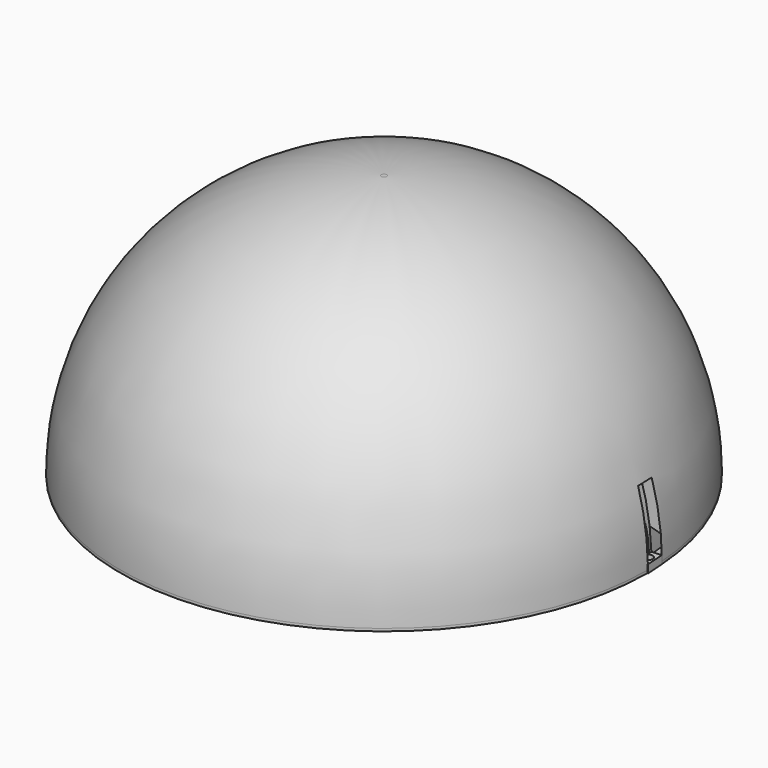
from build123d import *

# Parameters (mm, degrees)
SKETCH_R        = 100
PAD_DEPTH       = 100
FILLET_R        = 99
SPHERE001_ANGLE = 4
SPHERE002_ANGLE = 16
PAD001_DEPTH    = 10
PAD003_DEPTH    = 10
PAD004_DEPTH    = 7.2
PAD005_DEPTH    = 7.2
SKETCH007_R     = 1.75
POCKET_DEPTH    = 3
SKETCH008_R     = 2.8
POCKET001_DEPTH = 10


with BuildPart() as part:
    # Sketch → Pad (new body)
    with BuildSketch(Plane.XY):
        Circle(SKETCH_R)
    extrude(amount=PAD_DEPTH)

    # Fillet
    fillet_edges = [part.edges().sort_by_distance(p)[0] for p in [
        (-100, 0, 100),
    ]]
    fillet(fillet_edges, radius=FILLET_R)

    # Sphere001 → Sphere001 (revolve, cut)
    with BuildSketch(Plane.XZ):
        with BuildLine():
            ThreePointArc((101, 0), (100.0170749429, 14.056483197), (97.0874312898, 27.8393729375))
            Line((97.0874312898, 27.8393729375), (0, 27.8393729375))
            Line((0, 27.8393729375), (0, 0))
            Line((0, 0), (101, 0))
        make_face()
    revolve(axis=Axis((0, 0, 0), (0, 0, 1)), revolution_arc=SPHERE001_ANGLE, mode=Mode.SUBTRACT)

    # Sphere002 → Sphere002 (revolve, cut)
    with BuildSketch(Plane.YX):
        with BuildLine():
            ThreePointArc((100.7539690762, -7.0454038482), (100.9384735289, -3.524849167), (101, 0))
            Line((101, 0), (0, 0))
            Line((0, 0), (0, -7.0454038482))
            Line((0, -7.0454038482), (100.7539690762, -7.0454038482))
        make_face()
    revolve(axis=Axis((0, 0, 0), (1, 0, 0)), revolution_arc=SPHERE002_ANGLE, mode=Mode.SUBTRACT)

    # Sphere → Sphere (revolve, cut)
    with BuildSketch(Plane.XZ):
        with BuildLine():
            ThreePointArc((0, -94), (94, 0), (0, 94))
            Line((0, 94), (0, -94))
        make_face()
    revolve(axis=Axis((0, 0, 0), (0, 0, 1)), mode=Mode.SUBTRACT)

    # Sketch001 → Pad001 (join)
    with BuildSketch(Plane.YZ.offset(-7.0454038482)):
        with BuildLine():
            ThreePointArc((96, 0), (94.5258819005, 16.7588081596), (90.148798939, 33.0029400184))
            Line((88.1935508181, 32.5253377246), (90.148798939, 33.0029400184))
            ThreePointArc((94, 0), (92.5370028067, 16.5197794038), (88.1935508181, 32.5253377246))
            Line((94, 0), (96, 0))
        make_face()
    extrude(amount=PAD001_DEPTH)

    # Sketch003 → Pad003 (join)
    with BuildSketch(Plane.ZX):
        with BuildLine():
            ThreePointArc((33.8917969002, 89.8184062588), (17.2254607943, 94.4419583682), (0, 96))
            Line((0, 96), (0, 94))
            ThreePointArc((33.4339723132, 87.8531131797), (16.9971668391, 92.450507405), (0, 94))
            Line((33.4339723132, 87.8531131797), (33.8917969002, 89.8184062588))
        make_face()
    extrude(amount=PAD003_DEPTH)

    # Sketch005 → Pad004 (join)
    with BuildSketch(Plane.YZ.offset(-7.0454038482)):
        with BuildLine():
            Line((99.9549898704, 3), (94.9526197638, 3))
            ThreePointArc((95, 0), (94.9881542024, 1.5001870622), (94.9526197638, 3))
            Line((100, 0), (95, 0))
            ThreePointArc((100, 0), (99.9887468344, 1.5001688165), (99.9549898704, 3))
        make_face()
    extrude(amount=PAD004_DEPTH)

    # Sketch006 → Pad005 (join)
    with BuildSketch(Plane(origin=(0, 0, 0), x_dir=(0.9975640503, 0.0697564737, 0), z_dir=(0.0697564737, -0.9975640503, 0))):
        with BuildLine():
            ThreePointArc((100, 0), (99.9887468344, 1.5001688165), (99.9549898704, 3))
            Line((94.9526197638, 3), (99.9549898704, 3))
            ThreePointArc((95, 0), (94.9881542024, 1.5001870622), (94.9526197638, 3))
            Line((95, 0), (100, 0))
        make_face()
    extrude(amount=PAD005_DEPTH)

    # Sketch007 (on Face37 of Pad005) → Pocket (cut)
    with BuildSketch(Plane(origin=(0, 0, 0), x_dir=(1, 0, 0), z_dir=(0, 0, -1))):
        with Locations((97.4421593289, -3.3579138356)):
            Circle(SKETCH007_R)
    extrude(amount=-POCKET_DEPTH, mode=Mode.SUBTRACT)

    # Sketch008 (on Face10 of Pocket) → Pocket001 (cut)
    with BuildSketch(Plane.XY.offset(3)):
        with Locations((97.4457383082, 3.2523968969)):
            Circle(SKETCH008_R)
    extrude(amount=POCKET001_DEPTH, mode=Mode.SUBTRACT)


solid = part.part
